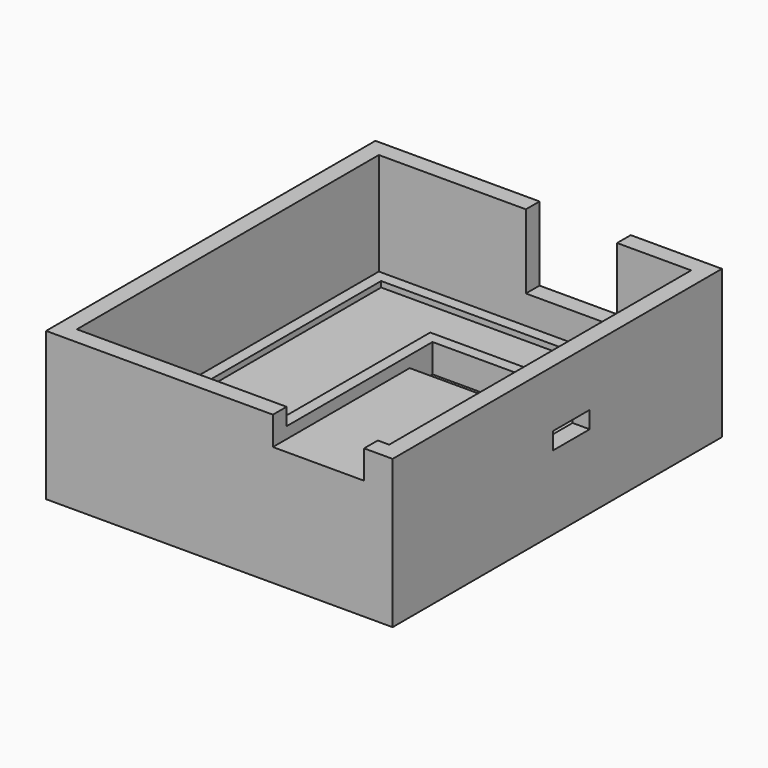
from build123d import *

# Parameters (mm, degrees)
SKETCH_W        = 60.8
SKETCH_H        = 72.23
PAD_DEPTH       = 8
SKETCH001_R     = 3
PAD001_DEPTH    = 3
SKETCH002_W     = 50.8
SKETCH002_H     = 62.23
SKETCH002_R     = 3
POCKET_DEPTH    = 1
SKETCH003_W     = 60.8
SKETCH003_H     = 72.23
SKETCH003_W_2   = 54.8
SKETCH003_H_2   = 66.23
PAD002_DEPTH    = 18
SKETCH004_W     = 16
SKETCH004_H     = 13
POCKET001_DEPTH = 3.001
SKETCH005_W     = 8
SKETCH005_H     = 3
POCKET002_DEPTH = 3.001
SKETCH006_W     = 16
SKETCH006_H     = 5
POCKET003_DEPTH = 3
PAD003_DEPTH    = 32
SKETCH008_W     = 16
SKETCH008_H     = 3
POCKET004_DEPTH = 5
SKETCH009_W     = 2
SKETCH009_H     = 5
PAD004_DEPTH    = 20
SKETCH010_R     = 1
PAD005_DEPTH    = 2


with BuildPart() as part:
    # Sketch → Pad (new body)
    with BuildSketch(Plane.XY):
        with Locations((25.4, 31.115)):
            Rectangle(SKETCH_W, SKETCH_H)
    extrude(amount=-PAD_DEPTH)

    # Sketch001 (on Face5 of Pad) → Pad001 (join)
    with BuildSketch(Plane.XY):
        with Locations((46.8, 58.23)):
            Circle(SKETCH001_R)
        with Locations((4, 7)):
            Circle(SKETCH001_R)
    extrude(amount=PAD001_DEPTH)

    # Sketch002 (on Face4 of Pad001) → Pocket (cut)
    with BuildSketch(Plane.XY):
        with Locations((25.4, 31.115)):
            Rectangle(SKETCH002_W, SKETCH002_H)
        with Locations((46.8, 58.23)):
            Circle(SKETCH002_R, mode=Mode.SUBTRACT)
        with Locations((4, 7)):
            Circle(SKETCH002_R, mode=Mode.SUBTRACT)
    extrude(amount=-POCKET_DEPTH, mode=Mode.SUBTRACT)

    # Sketch003 (on Face4 of Pocket) → Pad002 (join)
    with BuildSketch(Plane.XY):
        with Locations((25.4, 31.115)):
            Rectangle(SKETCH003_W, SKETCH003_H)
        with Locations((25.4, 31.115)):
            Rectangle(SKETCH003_W_2, SKETCH003_H_2, mode=Mode.SUBTRACT)
    extrude(amount=PAD002_DEPTH)

    # Sketch004 (on Face11 of Pad002) → Pocket001 (cut, through all)
    with BuildSketch(Plane.XZ.offset(-64.23)):
        with Locations((31.8, 11.5)):
            Rectangle(SKETCH004_W, SKETCH004_H)
    extrude(amount=-POCKET001_DEPTH, mode=Mode.SUBTRACT)

    # Sketch005 (on Face17 of Pocket001) → Pocket002 (cut, through all)
    with BuildSketch(Plane(origin=(52.8, 0, 0), x_dir=(0, -1, 0), z_dir=(-1, 0, 0))):
        with Locations((-34.23, 6.5)):
            Rectangle(SKETCH005_W, SKETCH005_H)
    extrude(amount=-POCKET002_DEPTH, mode=Mode.SUBTRACT)

    # Sketch006 (on Face13 of Pocket002) → Pocket003 (cut)
    with BuildSketch(Plane.XZ.offset(5)):
        with Locations((42.8, 15.5)):
            Rectangle(SKETCH006_W, SKETCH006_H)
    extrude(amount=-POCKET003_DEPTH, mode=Mode.SUBTRACT)

    # Sketch007 (on Face21 of Pocket003) → Pad003 (join)
    with BuildSketch(Plane(origin=(0, -2, 0), x_dir=(-1, 0, 0), z_dir=(0, 1, 0))):
        Polygon((-50.8, 13), (-34.8, 13), (-34.8, 15), (-32.8, 15), (-32.8, 10), (-52.8, 10), (-52.8, 15), (-50.8, 15), align=None)
    extrude(amount=PAD003_DEPTH)

    # Sketch008 (on Face34 of Pad003) → Pocket004 (cut)
    with BuildSketch(Plane(origin=(0, 30, 0), x_dir=(-1, 0, 0), z_dir=(0, 1, 0))):
        with Locations((-42.8, 11.5)):
            Rectangle(SKETCH008_W, SKETCH008_H)
    extrude(amount=-POCKET004_DEPTH, mode=Mode.SUBTRACT)

    # Sketch009 (on Face25 of Pocket004) → Pad004 (join)
    with BuildSketch(Plane(origin=(52.8, 0, 0), x_dir=(0, -1, 0), z_dir=(-1, 0, 0))):
        with Locations((-31, 12.5)):
            Rectangle(SKETCH009_W, SKETCH009_H)
    extrude(amount=PAD004_DEPTH)

    # Sketch010 (on Face53 of Pad004) → Pad005 (join)
    with BuildSketch(Plane.XY.offset(3)):
        with Locations((46.8, 58.23)):
            Circle(SKETCH010_R)
        with Locations((4, 7)):
            Circle(SKETCH010_R)
    extrude(amount=PAD005_DEPTH)


solid = part.part
